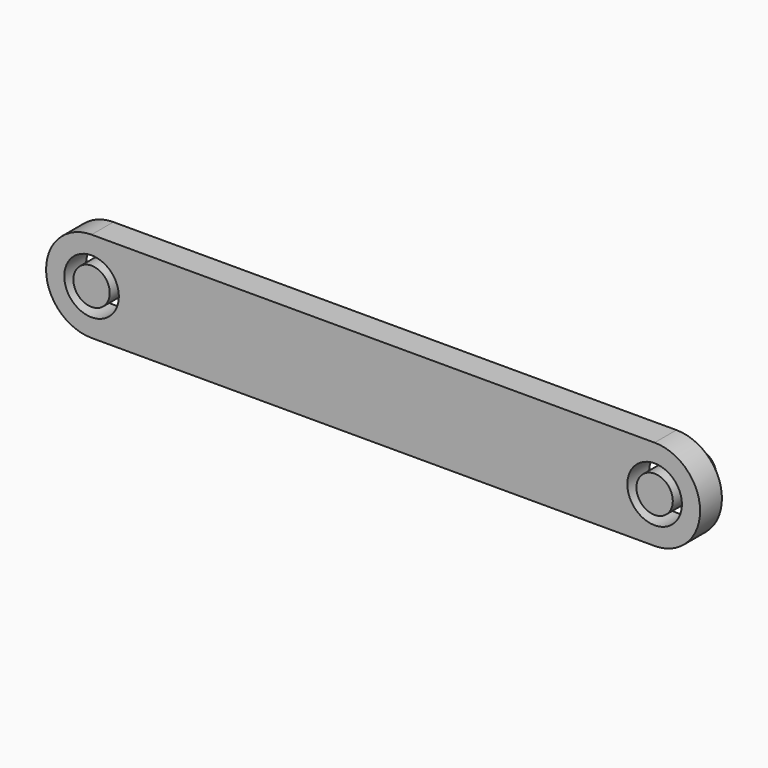
from build123d import *

# Parameters (mm, degrees)
F0_R     = 3
F1_DEPTH = 3
F0_R_2   = 2
F2_DEPTH = 3


with BuildPart() as f1:
    # F0 (on Front) → F1 (new body)
    with BuildSketch(Plane.XZ):
        with BuildLine():
            Line((30.95, 5), (-30.95, 5))
            ThreePointArc((-30.95, 5), (-35.95, 0), (-30.95, -5))
            Line((-30.95, -5), (30.95, -5))
            ThreePointArc((30.95, -5), (35.95, 0), (30.95, 5))
        make_face()
        with Locations((-30.95, 0)):
            Circle(F0_R, mode=Mode.SUBTRACT)
        with Locations((30.95, 0)):
            Circle(F0_R, mode=Mode.SUBTRACT)
    extrude(amount=F1_DEPTH)


with BuildPart() as f1b:
    # F0 (on Front) → F1, piece 2 (new body)
    with BuildSketch(Plane.XZ):
        with Locations((-30.95, 0)):
            Circle(F0_R_2)
    extrude(amount=F1_DEPTH)


with BuildPart() as f1c:
    # F0 (on Front) → F1, piece 3 (new body)
    with BuildSketch(Plane.XZ):
        with Locations((30.95, 0)):
            Circle(F0_R_2)
    extrude(amount=F1_DEPTH)

    # F2 (add): a face of the model
    f2_faces = [f1c.faces().sort_by_distance(p)[0] for p in [
        (30.95, 0, 0),
    ]]
    extrude(f2_faces, amount=F2_DEPTH)


solid = Compound([f1.part, f1b.part, f1c.part])
